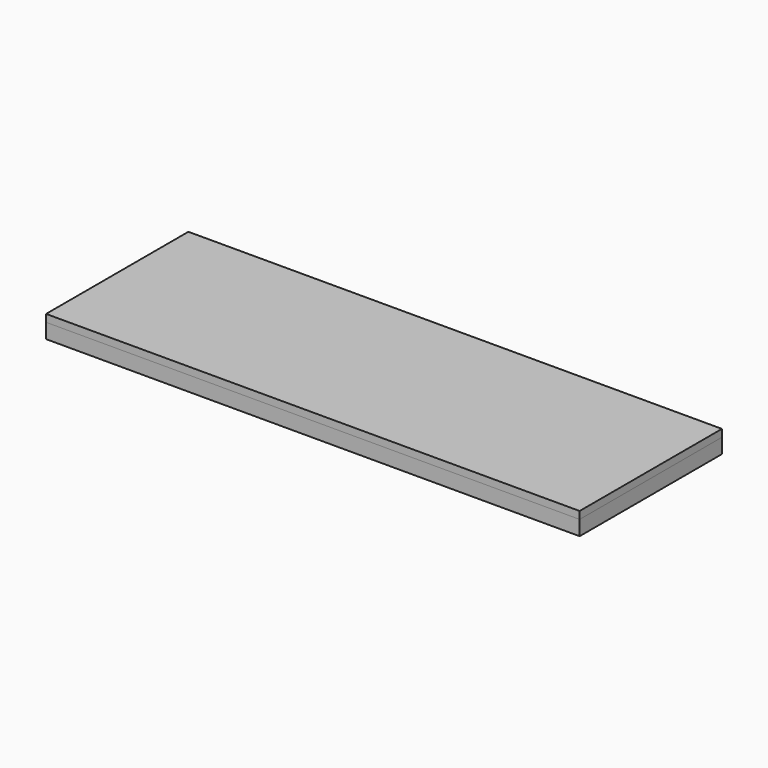
from build123d import *

# Parameters (mm, degrees)
F0_W      = 7315.2
F0_H      = 2438.4
F1_DEPTH  = 203.2
F1_FACE_W = 7315.2
F1_FACE_H = 2438.4
F2_DEPTH  = 101.6


with BuildPart() as f1:
    # F0 (on Top) → F1 (new body)
    with BuildSketch(Plane.XY):
        with Locations((797.671371, -3.789365)):
            Rectangle(F0_W, F0_H)
    extrude(amount=-F1_DEPTH)


with BuildPart() as f2:
    # F1_face (on face) → F2 (new body)
    with BuildSketch(Plane(origin=(797.671371, -3.789365, 0), x_dir=(1, 0, 0), z_dir=(0, 0, 1))):
        Rectangle(F1_FACE_W, F1_FACE_H)
    extrude(amount=F2_DEPTH)


solid = Compound([f1.part, f2.part])
